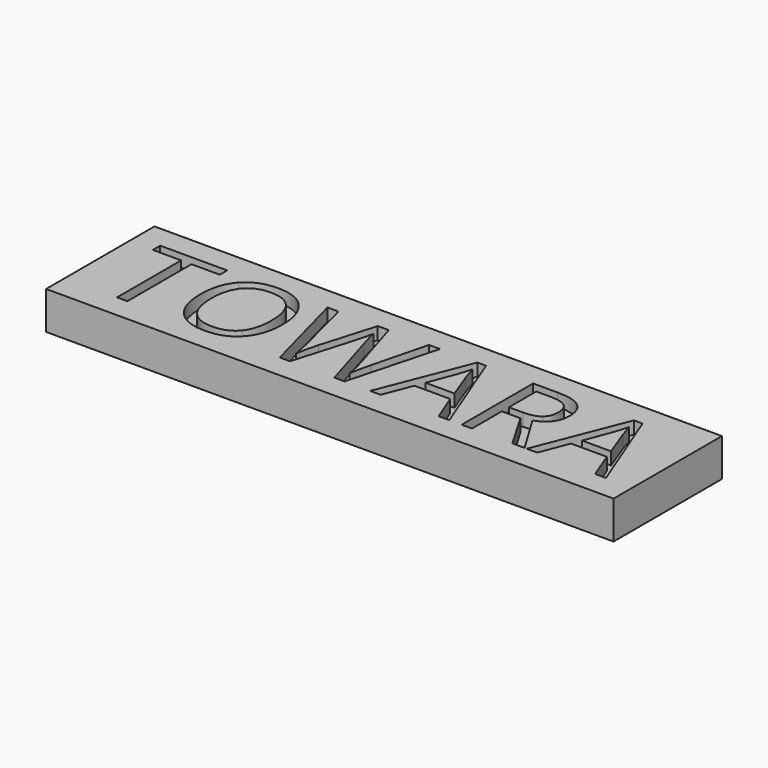
from build123d import *

# Parameters (mm, degrees)
F2_W     = 45
F2_H     = 10.7396448086
F3_DEPTH = 2
F0_W     = 45
F0_H     = 10.7396448086
F4_DEPTH = 1


with BuildPart() as f3:
    # F2 (on offset) → F3 (new body)
    with BuildSketch(Plane.XY.offset(-2)):
        with Locations((20.6953600791, -3.6390531603)):
            Rectangle(F2_W, F2_H)
    extrude(amount=F3_DEPTH)

    # F0 (on Top) → F4 (join)
    with BuildSketch(Plane.XY):
        with Locations((20.6953600791, -3.6390531603)):
            Rectangle(F0_W, F0_H)
        Polygon((3.1538346612, -0.7923350599), (3.1538346612, -7.1449705598), (2.3304884443, -7.1449705598), (2.3304884443, -0.7923350599), (0.0868312394, -0.7923350599), (0.0868312394, -0.060471756), (5.397491866, -0.060471756), (5.397491866, -0.7923350599), align=None, mode=Mode.SUBTRACT)
        with BuildLine():
            add(Edge.make_bspline(
                [(11.7563295973, -0.9179302455), (12.6137880868, -1.8870289), (12.6137880868, -3.5926425319)],
                knots=[0, 0, 0, 1, 1, 1], degree=2))
            add(Edge.make_bspline(
                [(12.6137880868, -3.5926425319), (12.6137880868, -5.2936044903), (11.7532284816, -6.2681300972)],
                knots=[0, 0, 0, 1, 1, 1], degree=2))
            add(Edge.make_bspline(
                [(11.7532284816, -6.2681300972), (10.8926688764, -7.2426557042), (9.3622682813, -7.2426557042)],
                knots=[0, 0, 0, 1, 1, 1], degree=2))
            add(Edge.make_bspline(
                [(9.3622682813, -7.2426557042), (7.7977554135, -7.2426557042), (6.9472744343, -6.2851862335)],
                knots=[0, 0, 0, 1, 1, 1], degree=2))
            add(Edge.make_bspline(
                [(6.9472744343, -6.2851862335), (6.0967934551, -5.3277167629), (6.0967934551, -3.5833391848)],
                knots=[0, 0, 0, 1, 1, 1], degree=2))
            add(Edge.make_bspline(
                [(6.0967934551, -3.5833391848), (6.0967934551, -1.8529166274), (6.9496002711, -0.9008741092)],
                knots=[0, 0, 0, 1, 1, 1], degree=2))
            add(Edge.make_bspline(
                [(6.9496002711, -0.9008741092), (7.802407087, 0.051168409), (9.3715716284, 0.051168409)],
                knots=[0, 0, 0, 1, 1, 1], degree=2))
            add(Edge.make_bspline(
                [(9.3715716284, 0.051168409), (10.8988711078, 0.051168409), (11.7563295973, -0.9179302455)],
                knots=[0, 0, 0, 1, 1, 1], degree=2))
        make_face(mode=Mode.SUBTRACT)
        with BuildLine():
            Line((22.2706623591, -0.060471756), (20.3758806698, -7.1449705598))
            Line((20.3758806698, -7.1449705598), (19.5618378, -7.1449705598))
            Line((19.5618378, -7.1449705598), (18.1322234649, -2.4018141053))
            add(Edge.make_bspline(
                [(18.1322234649, -2.4018141053), (18.029886647, -2.0855003045), (17.9042914614, -1.6063779297)],
                knots=[0, 0, 0, 1, 1, 1], degree=2))
            add(Edge.make_bspline(
                [(17.9042914614, -1.6063779297), (17.7786962758, -1.1272555549), (17.7740446022, -1.0295704105)],
                knots=[0, 0, 0, 1, 1, 1], degree=2))
            add(Edge.make_bspline(
                [(17.7740446022, -1.0295704105), (17.6670561108, -1.6699508014), (17.4344724337, -2.4297241465)],
                knots=[0, 0, 0, 1, 1, 1], degree=2))
            Line((17.4344724337, -2.4297241465), (16.0482737183, -7.1449705598))
            Line((16.0482737183, -7.1449705598), (15.2342308486, -7.1449705598))
            Line((15.2342308486, -7.1449705598), (13.3487525064, -0.060471756))
            Line((13.3487525064, -0.060471756), (14.2217165743, -0.060471756))
            Line((14.2217165743, -0.060471756), (15.34121934, -4.4361460008))
            add(Edge.make_bspline(
                [(15.34121934, -4.4361460008), (15.5738030171, -5.357177362), (15.6807915085, -6.1029956865)],
                knots=[0, 0, 0, 1, 1, 1], degree=2))
            add(Edge.make_bspline(
                [(15.6807915085, -6.1029956865), (15.8110383677, -5.2160765979), (16.0684309703, -4.3679214555)],
                knots=[0, 0, 0, 1, 1, 1], degree=2))
            Line((16.0684309703, -4.3679214555), (17.3367872893, -0.060471756))
            Line((17.3367872893, -0.060471756), (18.2097513573, -0.060471756))
            Line((18.2097513573, -0.060471756), (19.541680548, -4.4066854017))
            add(Edge.make_bspline(
                [(19.541680548, -4.4066854017), (19.7742642251, -5.1587059576), (19.9339716834, -6.1029956865)],
                knots=[0, 0, 0, 1, 1, 1], degree=2))
            add(Edge.make_bspline(
                [(19.9339716834, -6.1029956865), (20.0270051542, -5.4145480024), (20.282847199, -4.4268426537)],
                knots=[0, 0, 0, 1, 1, 1], degree=2))
            Line((20.282847199, -4.4268426537), (21.3976982911, -0.060471756))
            Line((21.3976982911, -0.060471756), (22.2706623591, -0.060471756))
        make_face(mode=Mode.SUBTRACT)
        Polygon((28.6853201729, -7.1449705598), (27.8325133569, -7.1449705598), (26.9502459419, -4.8920100079), (24.1111745237, -4.8920100079), (23.2397610136, -7.1449705598), (22.4055608918, -7.1449705598), (25.2058683638, -0.0310111569), (25.8989677215, -0.0310111569), align=None, mode=Mode.SUBTRACT)
        with BuildLine():
            Line((31.961648904, -4.1989106502), (30.4824167177, -4.1989106502))
            Line((30.4824167177, -4.1989106502), (30.4824167177, -7.1449705598))
            Line((30.4824167177, -7.1449705598), (29.6590705009, -7.1449705598))
            Line((29.6590705009, -7.1449705598), (29.6590705009, -0.060471756))
            Line((29.6590705009, -0.060471756), (31.6019194834, -0.060471756))
            add(Edge.make_bspline(
                [(31.6019194834, -0.060471756), (32.9059386329, -0.060471756), (33.5284876085, -0.5597513828)],
                knots=[0, 0, 0, 1, 1, 1], degree=2))
            add(Edge.make_bspline(
                [(33.5284876085, -0.5597513828), (34.1510365842, -1.0590310096), (34.1510365842, -2.0622419368)],
                knots=[0, 0, 0, 1, 1, 1], degree=2))
            add(Edge.make_bspline(
                [(34.1510365842, -2.0622419368), (34.1510365842, -3.4670473463), (32.7260739226, -3.9616752995)],
                knots=[0, 0, 0, 1, 1, 1], degree=2))
            Line((32.7260739226, -3.9616752995), (34.650316211, -7.1449705598))
            Line((34.650316211, -7.1449705598), (33.6765658829, -7.1449705598))
            Line((33.6765658829, -7.1449705598), (31.961648904, -4.1989106502))
        make_face(mode=Mode.SUBTRACT)
        Polygon((41.0990862974, -7.1449705598), (40.2462794814, -7.1449705598), (39.3640120664, -4.8920100079), (36.5249406482, -4.8920100079), (35.6535271381, -7.1449705598), (34.8193270163, -7.1449705598), (37.6196344883, -0.0310111569), (38.312733846, -0.0310111569), align=None, mode=Mode.SUBTRACT)
        with BuildLine():
            add(Edge.make_bspline(
                [(7.5814525938, -1.4296143351), (6.9682069652, -2.1738821017), (6.9682069652, -3.5926425319)],
                knots=[0, 0, 0, 1, 1, 1], degree=2))
            add(Edge.make_bspline(
                [(6.9682069652, -3.5926425319), (6.9682069652, -5.0315602141), (7.5814525938, -5.7758279808)],
                knots=[0, 0, 0, 1, 1, 1], degree=2))
            add(Edge.make_bspline(
                [(7.5814525938, -5.7758279808), (8.1946982224, -6.5200957474), (9.3622682813, -6.5200957474)],
                knots=[0, 0, 0, 1, 1, 1], degree=2))
            add(Edge.make_bspline(
                [(9.3622682813, -6.5200957474), (10.5391416873, -6.5200957474), (11.1399828531, -5.7789290964)],
                knots=[0, 0, 0, 1, 1, 1], degree=2))
            add(Edge.make_bspline(
                [(11.1399828531, -5.7789290964), (11.7408240189, -5.0377624455), (11.7408240189, -3.5926425319)],
                knots=[0, 0, 0, 1, 1, 1], degree=2))
            add(Edge.make_bspline(
                [(11.7408240189, -3.5926425319), (11.7408240189, -2.1630281968), (11.1423086898, -1.4241873826)],
                knots=[0, 0, 0, 1, 1, 1], degree=2))
            add(Edge.make_bspline(
                [(11.1423086898, -1.4241873826), (10.5437933608, -0.6853465685), (9.3715716284, -0.6853465685)],
                knots=[0, 0, 0, 1, 1, 1], degree=2))
            add(Edge.make_bspline(
                [(9.3715716284, -0.6853465685), (8.1946982224, -0.6853465685), (7.5814525938, -1.4296143351)],
                knots=[0, 0, 0, 1, 1, 1], degree=2))
        make_face()
        with BuildLine():
            Line((24.4026793989, -4.1508433569), (26.6944038971, -4.1508433569))
            Line((26.6944038971, -4.1508433569), (25.8695071224, -1.9552534453))
            add(Edge.make_bspline(
                [(25.8695071224, -1.9552534453), (25.7097996641, -1.5381533844), (25.5407888588, -0.933435824)],
                knots=[0, 0, 0, 1, 1, 1], degree=2))
            add(Edge.make_bspline(
                [(25.5407888588, -0.933435824), (25.4338003673, -1.3986031782), (25.2353289629, -1.9552534453)],
                knots=[0, 0, 0, 1, 1, 1], degree=2))
            Line((25.2353289629, -1.9552534453), (24.4026793989, -4.1508433569))
        make_face()
        with BuildLine():
            Line((30.4824167177, -0.7830317128), (30.4824167177, -3.4918562719))
            Line((30.4824167177, -3.4918562719), (31.6127733883, -3.4918562719))
            add(Edge.make_bspline(
                [(31.6127733883, -3.4918562719), (32.4841868985, -3.4918562719), (32.8912083333, -3.145306593)],
                knots=[0, 0, 0, 1, 1, 1], degree=2))
            add(Edge.make_bspline(
                [(32.8912083333, -3.145306593), (33.2982297682, -2.7987569142), (33.2982297682, -2.1056575565)],
                knots=[0, 0, 0, 1, 1, 1], degree=2))
            add(Edge.make_bspline(
                [(33.2982297682, -2.1056575565), (33.2982297682, -1.4032548517), (32.884230823, -1.0931432823)],
                knots=[0, 0, 0, 1, 1, 1], degree=2))
            add(Edge.make_bspline(
                [(32.884230823, -1.0931432823), (32.4702318778, -0.7830317128), (31.5538521901, -0.7830317128)],
                knots=[0, 0, 0, 1, 1, 1], degree=2))
            Line((31.5538521901, -0.7830317128), (30.4824167177, -0.7830317128))
        make_face()
        with BuildLine():
            Line((36.8164455235, -4.1508433569), (39.1081700216, -4.1508433569))
            Line((39.1081700216, -4.1508433569), (38.2832732469, -1.9552534453))
            add(Edge.make_bspline(
                [(38.2832732469, -1.9552534453), (38.1235657886, -1.5381533844), (37.9545549833, -0.933435824)],
                knots=[0, 0, 0, 1, 1, 1], degree=2))
            add(Edge.make_bspline(
                [(37.9545549833, -0.933435824), (37.8475664919, -1.3986031782), (37.6490950874, -1.9552534453)],
                knots=[0, 0, 0, 1, 1, 1], degree=2))
            Line((37.6490950874, -1.9552534453), (36.8164455235, -4.1508433569))
        make_face()
    extrude(amount=F4_DEPTH)


solid = f3.part
